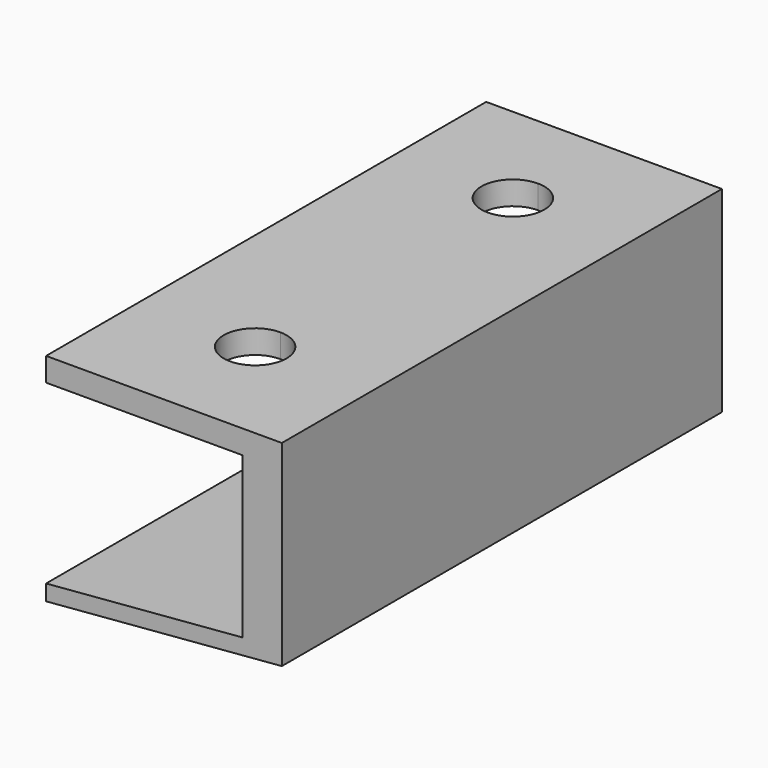
from build123d import *

# Parameters (mm, degrees)
F1_DEPTH = 70
F3_DEPTH = 5


with BuildPart() as f1:
    # F0 (on Front) → F1 (new body)
    with BuildSketch(Plane.XZ):
        Polygon((0, 3), (0, 0), (25, 0), (25, -20.415811), (25, -22.415811), (30, -22), (30, 3), align=None)
        Polygon((25, -22.415811), (25, -20.415811), (0, -22.494866), (0, -24.494866), align=None)
    extrude(amount=F1_DEPTH)

    # F2 (on face) → F3 (cut)
    with BuildSketch(Plane.XY.offset(3)):
        with BuildLine():
            ThreePointArc((19, -14.5), (17.828427, -11.671573), (15, -10.5))
            Line((15, -10.5), (15, -14.5))
            Line((15, -14.5), (15, -18.5))
            ThreePointArc((15, -18.5), (17.828427, -17.328427), (19, -14.5))
        make_face()
        with BuildLine():
            ThreePointArc((19, -55.5), (17.828427, -52.671573), (15, -51.5))
            ThreePointArc((15, -51.5), (12.171573, -58.328427), (19, -55.5))
        make_face()
        with BuildLine():
            Line((15, -14.5), (15, -10.5))
            ThreePointArc((15, -10.5), (11, -14.5), (15, -18.5))
            Line((15, -18.5), (15, -14.5))
        make_face()
    extrude(amount=-F3_DEPTH, mode=Mode.SUBTRACT)


solid = f1.part
